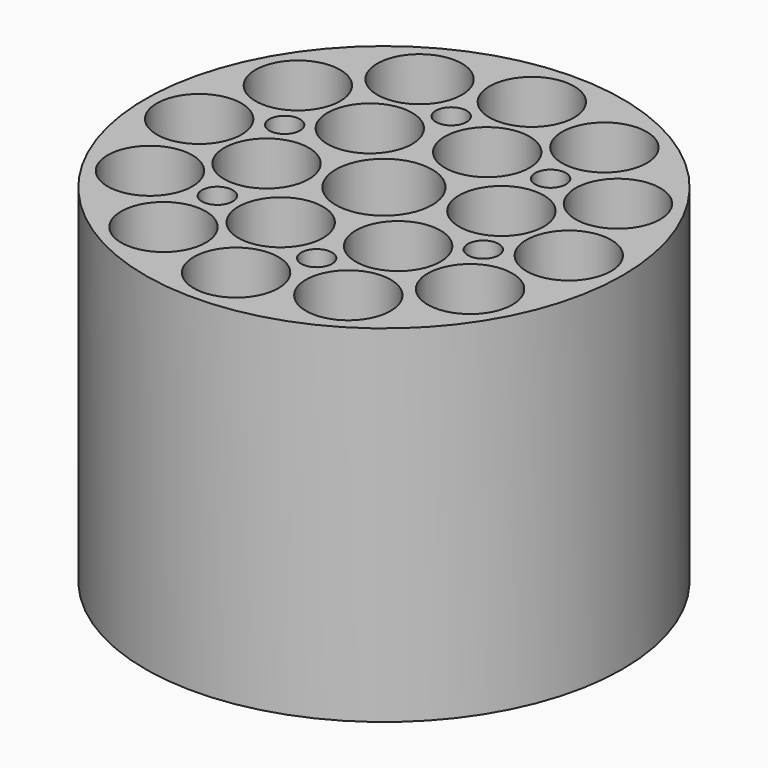
from build123d import *

# Parameters (mm, degrees)
F0_R     = 31
F1_DEPTH = 45
F2_R     = 6.25
F3_DEPTH = 51
F4_R     = 5.5
F5_DEPTH = 45
F6_R     = 5.5
F7_DEPTH = 45
F8_R     = 2
F9_DEPTH = 45


with BuildPart() as f1:
    # F0 (on Top) → F1 (new body)
    with BuildSketch(Plane.XY):
        Circle(F0_R)
    extrude(amount=F1_DEPTH)

    # F2 (on face) → F3 (cut)
    with BuildSketch(Plane(origin=(0, 0, 0), x_dir=(1, 0, 0), z_dir=(0, 0, -1))):
        Circle(F2_R)
    extrude(amount=-F3_DEPTH, mode=Mode.SUBTRACT)

    # F4 (on face) → F5 (cut)
    with BuildSketch(Plane(origin=(0, 0, 0), x_dir=(1, 0, 0), z_dir=(0, 0, -1))):
        with Locations((0, 24)):
            Circle(F4_R)
        with Locations((-12, 20.78461)):
            Circle(F4_R)
        with Locations((-20.78461, 12)):
            Circle(F4_R)
        with Locations((-24, 0)):
            Circle(F4_R)
        with Locations((-20.78461, -12)):
            Circle(F4_R)
        with Locations((-12, -20.78461)):
            Circle(F4_R)
        with Locations((0, -24)):
            Circle(F4_R)
        with Locations((12, -20.78461)):
            Circle(F4_R)
        with Locations((20.78461, -12)):
            Circle(F4_R)
        with Locations((24, 0)):
            Circle(F4_R)
        with Locations((20.78461, 12)):
            Circle(F4_R)
        with Locations((12, 20.78461)):
            Circle(F4_R)
    extrude(amount=-F5_DEPTH, mode=Mode.SUBTRACT)

    # F2 (on face) + F6 (on face) → F7 (cut)
    with BuildSketch(Plane(origin=(0, 0, 0), x_dir=(1, 0, 0), z_dir=(0, 0, -1))):
        Circle(F2_R)
    with BuildSketch(Plane(origin=(0, 0, 0), x_dir=(1, 0, 0), z_dir=(0, 0, -1))):
        with Locations((-12.557036, 3.364648)):
            Circle(F6_R)
        with Locations((-9.192388, -9.192388)):
            Circle(F6_R)
        with Locations((3.364648, -12.557036)):
            Circle(F6_R)
        with Locations((12.557036, -3.364648)):
            Circle(F6_R)
        with Locations((9.192388, 9.192388)):
            Circle(F6_R)
        with Locations((-3.364648, 12.557036)):
            Circle(F6_R)
    extrude(amount=-F7_DEPTH, mode=Mode.SUBTRACT)

    # F8 (on face) → F9 (cut)
    with BuildSketch(Plane(origin=(0, 0, 0), x_dir=(1, 0, 0), z_dir=(0, 0, -1))):
        with Locations((4.399924, 16.420739)):
            Circle(F8_R)
        with Locations((-12.020815, 12.020815)):
            Circle(F8_R)
        with Locations((-16.420739, -4.399924)):
            Circle(F8_R)
        with Locations((-4.399924, -16.420739)):
            Circle(F8_R)
        with Locations((12.020815, -12.020815)):
            Circle(F8_R)
        with Locations((16.420739, 4.399924)):
            Circle(F8_R)
    extrude(amount=-F9_DEPTH, mode=Mode.SUBTRACT)


solid = f1.part
